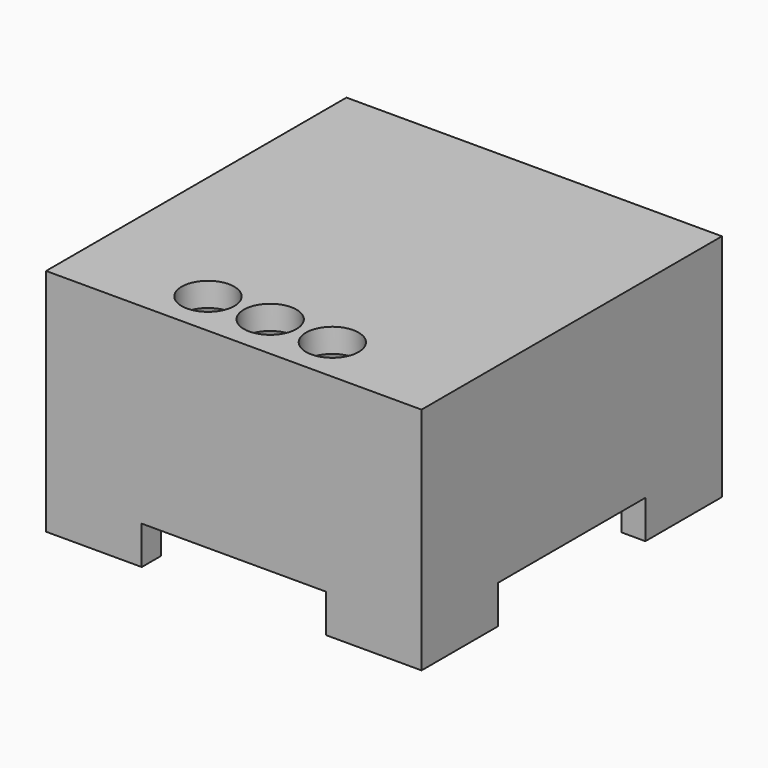
from build123d import *

# Parameters (mm, degrees)
F0_W     = 7.7
F0_H     = 1
F0_W_2   = 1
F0_H_2   = 7.7
F1_DEPTH = 9.6
F2_DEPTH = 1.6
F3_START = 8.6
F3_DEPTH = 1
F4_R     = 1.05
F5_DEPTH = 0.6
F6_DEPTH = 1.001


with BuildPart() as f1:
    # F0 (on Top) → F1 (new body)
    with BuildSketch(Plane.XY):
        Polygon((-3.85, 7.85), (-7.85, 7.85), (-7.85, 3.85), (-6.85, 3.85), (-6.85, 6.85), (-3.85, 6.85), align=None)
        with Locations((0, 7.35)):
            Rectangle(F0_W, F0_H)
        with Locations((-7.35, 0)):
            Rectangle(F0_W_2, F0_H_2)
        Polygon((7.85, 7.85), (3.85, 7.85), (3.85, 6.85), (6.85, 6.85), (6.85, 3.85), (7.85, 3.85), align=None)
        Polygon((-6.85, -3.85), (-7.85, -3.85), (-7.85, -7.85), (-3.85, -7.85), (-3.85, -6.85), (-6.85, -6.85), align=None)
        with Locations((7.35, 0)):
            Rectangle(F0_W_2, F0_H_2)
        with Locations((0, -7.35)):
            Rectangle(F0_W, F0_H)
        Polygon((7.85, -7.85), (7.85, -3.85), (6.85, -3.85), (6.85, -6.85), (3.85, -6.85), (3.85, -7.85), align=None)
    extrude(amount=F1_DEPTH)

    # F0 (on Top) → F2 (cut)
    with BuildSketch(Plane.XY):
        with Locations((0, 7.35)):
            Rectangle(F0_W, F0_H)
        with Locations((7.35, 0)):
            Rectangle(F0_W_2, F0_H_2)
        with Locations((0, -7.35)):
            Rectangle(F0_W, F0_H)
        with Locations((-7.35, 0)):
            Rectangle(F0_W_2, F0_H_2)
    extrude(amount=F2_DEPTH, mode=Mode.SUBTRACT)

    # F0 (on Top) → F3 (join)
    with BuildSketch(Plane.XY.offset(F3_START)):
        Polygon((3.85, 6.85), (-3.85, 6.85), (-6.85, 6.85), (-6.85, 3.85), (-6.85, -3.85), (-6.85, -6.85), (-3.85, -6.85), (3.85, -6.85), (6.85, -6.85), (6.85, -3.85), (6.85, 3.85), (6.85, 6.85), align=None)
    extrude(amount=F3_DEPTH)

    # F4 (on face) → F5 (cut)
    with BuildSketch(Plane(origin=(0, 0, 8.6), x_dir=(1, 0, 0), z_dir=(0, 0, -1))):
        with Locations((-5.65, -2.75)):
            Circle(F4_R)
        with Locations((5.65, 2.75)):
            Circle(F4_R)
    extrude(amount=-F5_DEPTH, mode=Mode.SUBTRACT)

    # F4 (on face) → F6 (cut, through all)
    with BuildSketch(Plane(origin=(0, 0, 8.6), x_dir=(1, 0, 0), z_dir=(0, 0, -1))):
        with BuildLine():
            Line((-3.232455532, 6.85), (-1.967544468, 6.85))
            ThreePointArc((-1.967544468, 6.85), (-2.6, 7.05), (-3.232455532, 6.85))
        make_face()
        with BuildLine():
            ThreePointArc((-3.232455532, 6.85), (-3.1070990607, 4.9738593633), (-1.5, 5.95))
            ThreePointArc((-1.5, 5.95), (-1.6238593633, 6.4570990607), (-1.967544468, 6.85))
            Line((-1.967544468, 6.85), (-3.232455532, 6.85))
        make_face()
        with BuildLine():
            ThreePointArc((0.632455532, 6.85), (0, 7.05), (-0.632455532, 6.85))
            Line((-0.632455532, 6.85), (0.632455532, 6.85))
        make_face()
        with BuildLine():
            Line((0.632455532, 6.85), (-0.632455532, 6.85))
            ThreePointArc((-0.632455532, 6.85), (-0.5070990607, 4.9738593633), (1.1, 5.95))
            ThreePointArc((1.1, 5.95), (0.9761406367, 6.4570990607), (0.632455532, 6.85))
        make_face()
        with BuildLine():
            ThreePointArc((3.232455532, 6.85), (2.6, 7.05), (1.967544468, 6.85))
            Line((1.967544468, 6.85), (3.232455532, 6.85))
        make_face()
        with BuildLine():
            Line((3.232455532, 6.85), (1.967544468, 6.85))
            ThreePointArc((1.967544468, 6.85), (2.0929009393, 4.9738593633), (3.7, 5.95))
            ThreePointArc((3.7, 5.95), (3.5761406367, 6.4570990607), (3.232455532, 6.85))
        make_face()
    extrude(amount=-F6_DEPTH, mode=Mode.SUBTRACT)


solid = f1.part
